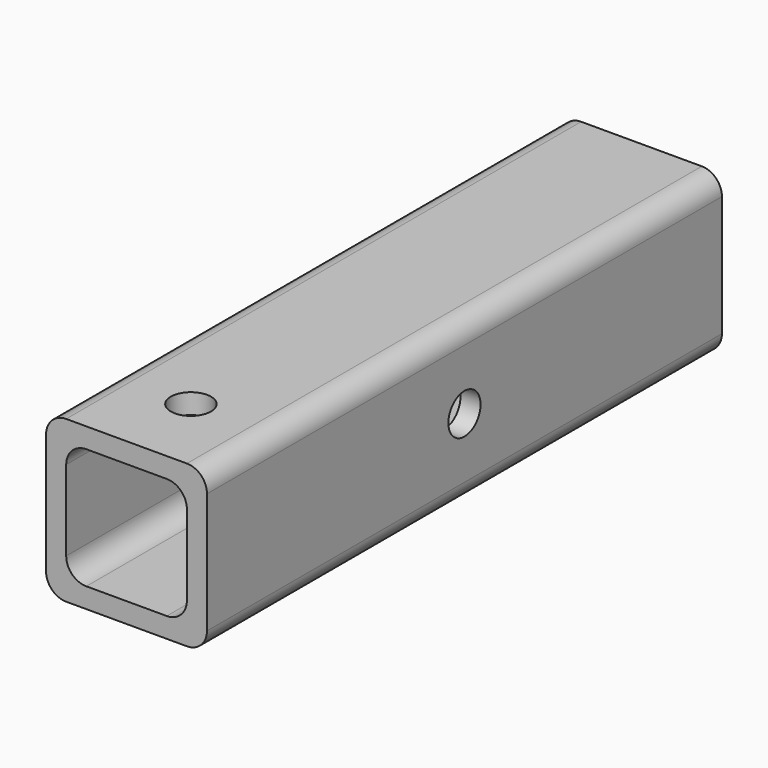
from build123d import *

# Parameters (mm, degrees)
F1_DEPTH = 203.2
F2_R     = 6.35
F3_DEPTH = 50.8
F4_R     = 6.35
F5_DEPTH = 25.4


with BuildPart() as f1:
    # F0 (on Front) → F1 (new body)
    with BuildSketch(Plane.XZ):
        with BuildLine():
            Line((-19.05, -25.4), (19.05, -25.4))
            ThreePointArc((19.05, -25.4), (23.540128, -23.540128), (25.4, -19.05))
            Line((25.4, -19.05), (25.4, 19.05))
            ThreePointArc((25.4, 19.05), (23.540128, 23.540128), (19.05, 25.4))
            Line((19.05, 25.4), (-19.05, 25.4))
            ThreePointArc((-19.05, 25.4), (-23.540128, 23.540128), (-25.4, 19.05))
            Line((-25.4, 19.05), (-25.4, -19.05))
            ThreePointArc((-25.4, -19.05), (-23.540128, -23.540128), (-19.05, -25.4))
        make_face()
        with BuildLine():
            ThreePointArc((19.05, -12.7), (17.190128, -17.190128), (12.7, -19.05))
            Line((12.7, -19.05), (-12.7, -19.05))
            ThreePointArc((-12.7, -19.05), (-17.190128, -17.190128), (-19.05, -12.7))
            Line((-19.05, -12.7), (-19.05, 12.7))
            ThreePointArc((-19.05, 12.7), (-17.190128, 17.190128), (-12.7, 19.05))
            Line((-12.7, 19.05), (12.7, 19.05))
            ThreePointArc((12.7, 19.05), (17.190128, 17.190128), (19.05, 12.7))
            Line((19.05, 12.7), (19.05, -12.7))
        make_face(mode=Mode.SUBTRACT)
    extrude(amount=F1_DEPTH)

    # F2 (on face) → F3 (cut)
    with BuildSketch(Plane.YZ.offset(25.4)):
        with Locations((-101.6, 0)):
            Circle(F2_R)
    extrude(amount=-F3_DEPTH, mode=Mode.SUBTRACT)

    # F4 (on face) → F5 (cut)
    with BuildSketch(Plane.XY.offset(25.4)):
        with Locations((0, -177.8)):
            Circle(F4_R)
    extrude(amount=-F5_DEPTH, mode=Mode.SUBTRACT)


solid = f1.part
